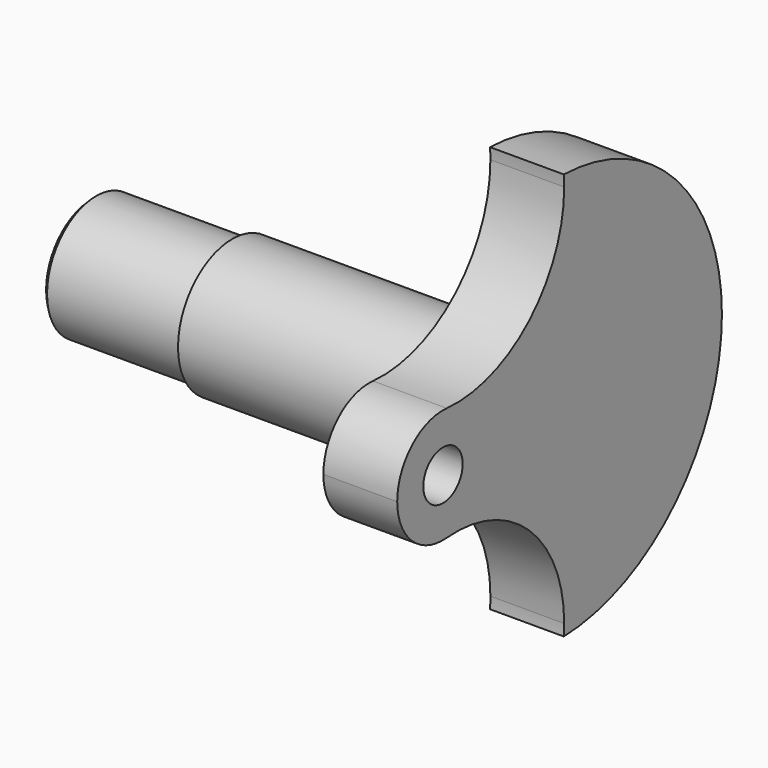
from build123d import *

# Parameters (mm, degrees)
F1_DEPTH = 7.62
F2_R     = 6.9977
F3_DEPTH = 23.0124
F4_R     = 6.3373
F5_DEPTH = 14.5542
F6_SIZE  = 0.508


with BuildPart() as f1:
    # F0 (on Right) → F1 (new body)
    with BuildSketch(Plane.YZ):
        with BuildLine():
            ThreePointArc((0.488564857, 5.885255698), (4.3451208276, 3.9993568537), (5.9055, 0))
            Line((5.9055, 0), (35.9918, 0))
            ThreePointArc((35.9918, 0), (30.0525244802, 14.6370582333), (15.5932935183, 20.9970195081))
            ThreePointArc((15.5932935183, 20.9970195081), (15.6296763666, 20.4153544005), (15.6418109969, 19.8326788821))
            ThreePointArc((15.6418109969, 19.8326788821), (11.1244567157, 9.5352097506), (0.488564857, 5.885255698))
        make_face()
        with BuildLine():
            Line((35.9918, 0), (5.9055, 0))
            ThreePointArc((5.9055, 0), (4.3451208206, -3.9993568613), (0.4885648365, -5.8852556997))
            ThreePointArc((0.4885648365, -5.8852556997), (11.1244567081, -9.5352097437), (15.6418109969, -19.8326788821))
            ThreePointArc((15.6418109969, -19.8326788821), (15.6296763666, -20.4153544005), (15.5932935183, -20.9970195081))
            ThreePointArc((15.5932935183, -20.9970195081), (30.0525244802, -14.6370582333), (35.9918, 0))
        make_face()
        with BuildLine():
            Line((5.9055, 0), (2.54, 0))
            ThreePointArc((2.54, 0), (0, -2.54), (-2.54, 0))
            Line((-2.54, 0), (-5.9055, 0))
            ThreePointArc((-5.9055, 0), (-3.9993568613, -4.3451208206), (0.4885648365, -5.8852556997))
            ThreePointArc((0.4885648365, -5.8852556997), (4.3451208206, -3.9993568613), (5.9055, 0))
        make_face()
        with BuildLine():
            ThreePointArc((-2.54, 0), (0, 2.54), (2.54, 0))
            Line((2.54, 0), (5.9055, 0))
            ThreePointArc((5.9055, 0), (4.3451208276, 3.9993568537), (0.488564857, 5.885255698))
            ThreePointArc((0.488564857, 5.885255698), (-3.9993568537, 4.3451208276), (-5.9055, 0))
            Line((-5.9055, 0), (-2.54, 0))
        make_face()
    extrude(amount=F1_DEPTH)

    # F2 (on face) → F3 (join)
    with BuildSketch(Plane(origin=(0, 0, 0), x_dir=(0, -1, 0), z_dir=(-1, 0, 0))):
        with Locations((-11.0998, 0)):
            Circle(F2_R)
    extrude(amount=F3_DEPTH)

    # F4 (on face) → F5 (join)
    with BuildSketch(Plane(origin=(-23.0124, 0, 0), x_dir=(0, -1, 0), z_dir=(-1, 0, 0))):
        with Locations((-11.0998, 0)):
            Circle(F4_R)
    extrude(amount=F5_DEPTH)

    # F6
    f6_edges = [f1.edges().sort_by_distance(p)[0] for p in [
        (-37.5666, 17.4371, 0),
    ]]
    chamfer(f6_edges, length=F6_SIZE)


solid = f1.part
